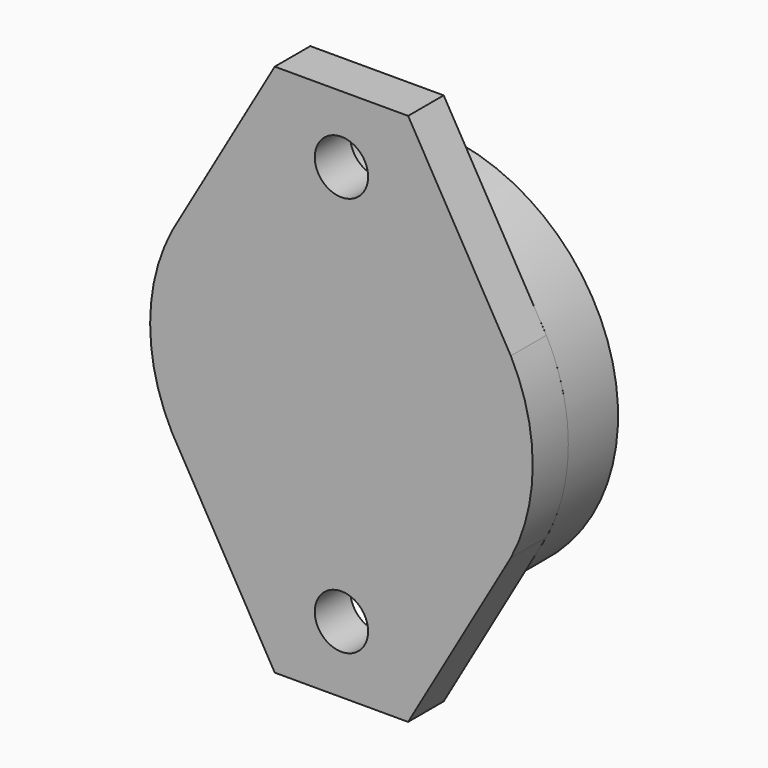
from build123d import *

# Parameters (mm, degrees)
SKETCH016_R      = 4
EXTRUDE016_DEPTH = 10
SKETCH015_R      = 21.512518
EXTRUDE015_DEPTH = 7
SKETCH014_R      = 3
EXTRUDE014_DEPTH = 5


with BuildPart() as extrude016:
    # Sketch016 → Extrude016 (new body)
    with BuildSketch(Plane(origin=(0, -538, -28), x_dir=(1, 0, 0), z_dir=(0, 1, 0))):
        with Locations((0, -22.5)):
            Circle(SKETCH016_R)
        with Locations((0, 22.5)):
            Circle(SKETCH016_R)
    extrude(amount=-EXTRUDE016_DEPTH)


with BuildPart() as cut007:
    # Sketch015 → Extrude015 (new body)
    with BuildSketch(Plane(origin=(0, -545, -28), x_dir=(1, 0, 0), z_dir=(0, 1, 0))):
        Circle(SKETCH015_R)
    extrude(amount=EXTRUDE015_DEPTH)

    # Cut007: cut Extrude016
    add(extrude016.part, mode=Mode.SUBTRACT)


with BuildPart() as fusion:
    # Sketch014 → Extrude014 (new body)
    with BuildSketch(Plane(origin=(0, -550, 0), x_dir=(-1, 0, 0), z_dir=(0, 1, 0))):
        with BuildLine():
            Line((-19.047005, -18), (-7.5, 2))
            Line((-7.5, 2), (7.5, 2))
            Line((7.5, 2), (19.047005, -18))
            ThreePointArc((19.047005, -38), (21.512518, -28), (19.047005, -18))
            Line((7.5, -58), (19.047005, -38))
            Line((-7.5, -58), (7.5, -58))
            Line((-19.047005, -38), (-7.5, -58))
            ThreePointArc((-19.047005, -18), (-21.512518, -28), (-19.047005, -38))
        make_face()
        with Locations((0, -5.5)):
            Circle(SKETCH014_R, mode=Mode.SUBTRACT)
        with Locations((0, -50.5)):
            Circle(SKETCH014_R, mode=Mode.SUBTRACT)
    extrude(amount=EXTRUDE014_DEPTH)

    # Fusion: union Cut007
    add(cut007.part)


with BuildPart() as fusion_1:
    # Fusion placement: moved
    add(fusion.part.moved(Location((0, 0, 28))))


solid = fusion_1.part
